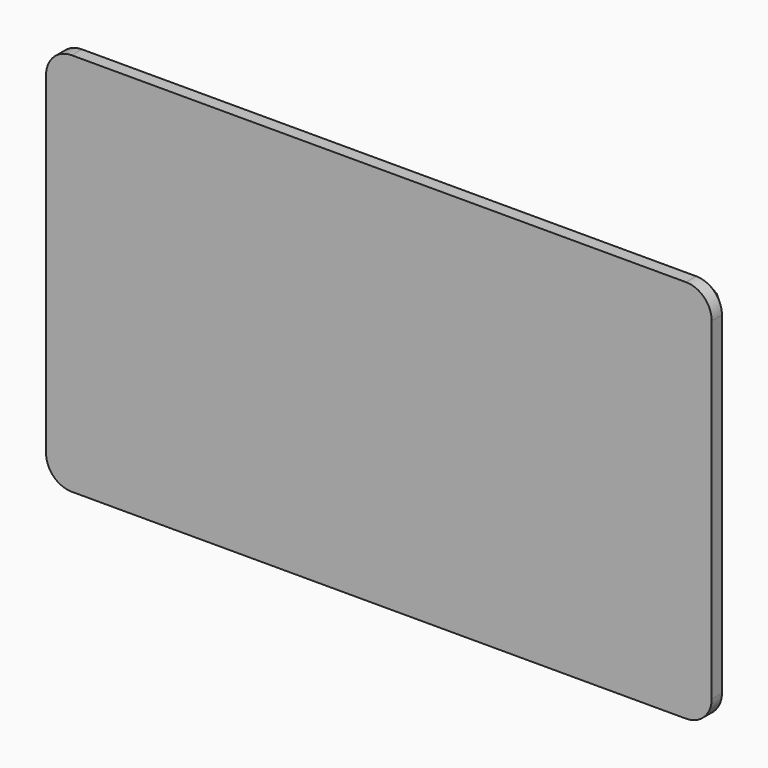
from build123d import *

# Parameters (mm, degrees)
F1_DEPTH = 38.1
F2_R     = 25.4
F3_SIZE  = 25.4


with BuildPart() as f1:
    # F0 (on Front) → F1 (new body)
    with BuildSketch(Plane.XZ):
        Polygon((-659.911358, 0), (0, 0), (-659.911358, 381), align=None)
        Polygon((-659.911358, 381), (0, 0), (0, 381), align=None)
    extrude(amount=F1_DEPTH)

    # F2
    f2_edges = [f1.edges().sort_by_distance(p)[0] for p in [
        (-659.911358, -19.05, 381),
        (0, -19.05, 381),
        (0, -19.05, 0),
        (-659.911358, -19.05, 0),
    ]]
    fillet(f2_edges, radius=F2_R)

    # F3
    f3_edges = [f1.edges().sort_by_distance(p)[0] for p in [
        (-659.911358, 0, 190.5),
        (-652.47187, 0, 373.560512),
        (-652.47187, 0, 7.439488),
        (-329.955679, 0, 381),
        (-329.955679, 0, 0),
        (-7.439488, 0, 373.560512),
        (-7.439488, 0, 7.439488),
        (0, 0, 190.5),
    ]]
    chamfer(f3_edges, length=F3_SIZE)


solid = f1.part
